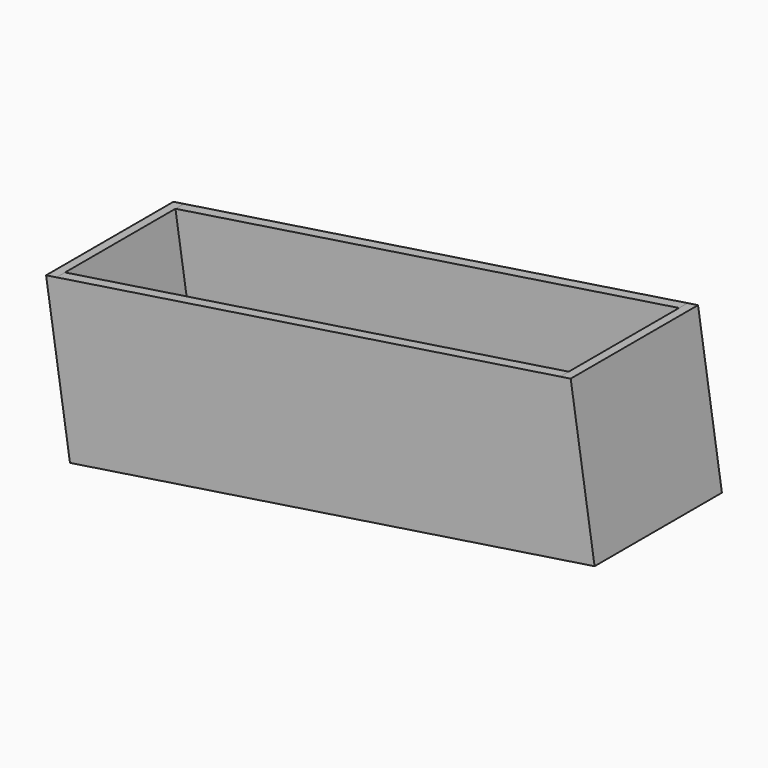
from build123d import *

# Parameters (mm, degrees)
F1_DEPTH = 19.05
F2_W     = 121.92
F2_H     = 2.54
F3_DEPTH = 35.56


with BuildPart() as f1:
    # F0 (on Front) → F1 (new body, symmetric)
    with BuildSketch(Plane.XZ):
        Polygon((-56.515, 37.6689364729), (-50.8, 0), (74.7631215764, 19.05), (69.0481215764, 56.7189364729), (66.5368591448, 56.3379364729), (71.8708591448, 21.1802624315), (-48.6697375685, 2.8922624315), (-54.0037375685, 38.0499364729), align=None)
    extrude(amount=F1_DEPTH, both=True)

    # F2 (on face) → F3 (join)
    with BuildSketch(Plane(origin=(-1.524, 0, 10.0450497261), x_dir=(0.9886859967, 0, 0.15), z_dir=(-0.15, 0, 0.9886859967))):
        with Locations((13.2747513695, 17.78)):
            Rectangle(F2_W, F2_H)
        with Locations((13.2747513695, -17.78)):
            Rectangle(F2_W, F2_H)
    extrude(amount=F3_DEPTH)


solid = f1.part
